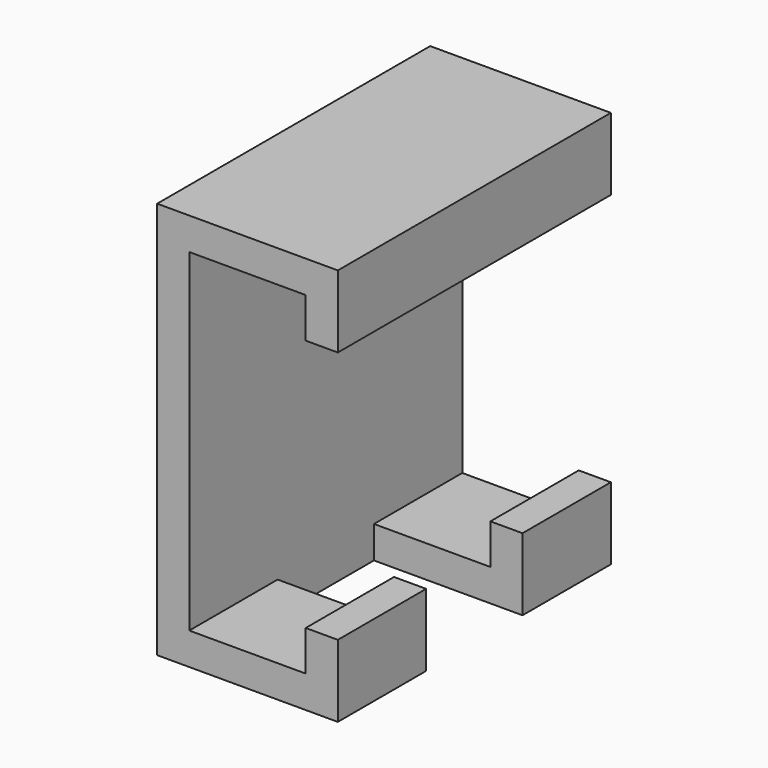
from build123d import *

# Parameters (mm, degrees)
F1_DEPTH = 42.5
F2_W     = 30
F2_H     = 18
F3_DEPTH = 37


with BuildPart() as f1:
    # F0 (on Front) → F1 (new body, symmetric)
    with BuildSketch(Plane.XZ):
        Polygon((0, -41.5), (0, 0), (0, 41.5), (29, 41.5), (29, 31.5), (37, 31.5), (37, 49.5), (-8, 49.5), (-8, 0), (-8, -49.5), (37, -49.5), (37, -31.5), (29, -31.5), (29, -41.5), align=None)
    extrude(amount=F1_DEPTH, both=True)

    # F2 (on face) → F3 (cut, through all)
    with BuildSketch(Plane.YZ.offset(37)):
        with Locations((0, -40.5)):
            Rectangle(F2_W, F2_H)
    extrude(amount=-F3_DEPTH, mode=Mode.SUBTRACT)


solid = f1.part
